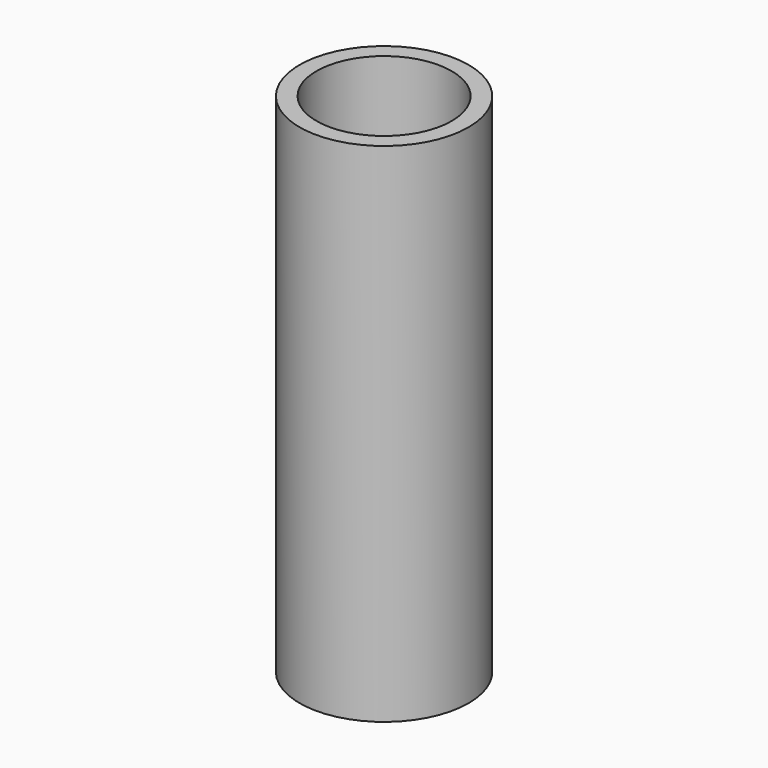
from build123d import *

# Parameters (mm, degrees)
SKETCH_R   = 5
SKETCH_R_2 = 4
PAD_DEPTH  = 30


with BuildPart() as part:
    # Sketch → Pad (new body)
    with BuildSketch(Plane.XY):
        Circle(SKETCH_R)
        Circle(SKETCH_R_2, mode=Mode.SUBTRACT)
    extrude(amount=PAD_DEPTH)


solid = part.part
